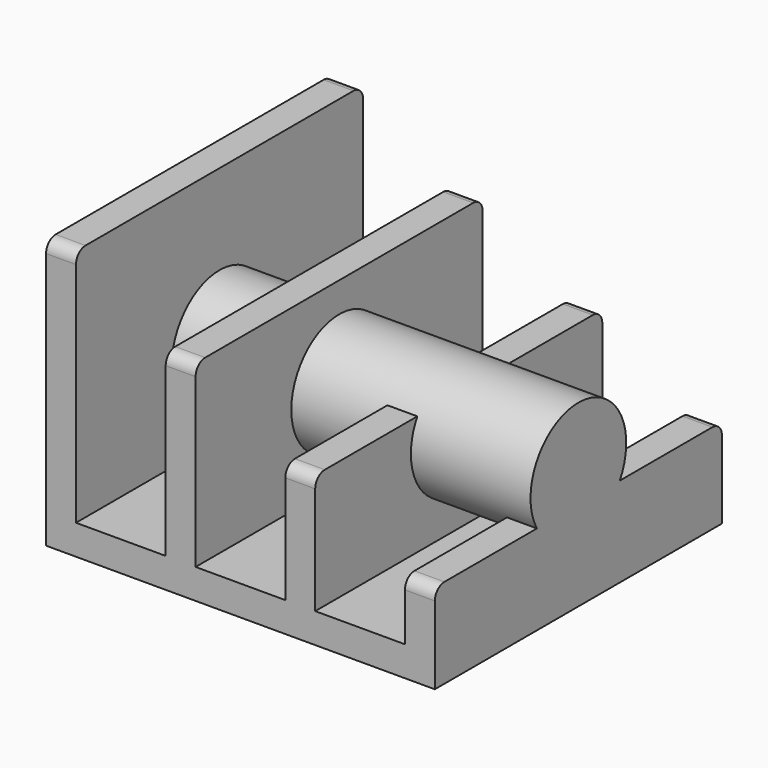
from build123d import *

# Parameters (mm, degrees)
F0_W     = 12.7
F0_H     = 76.2
F0_H_2   = 50.8
F1_DEPTH = 152.4
F2_R     = 25.4
F3_DEPTH = 165.1
F4_R     = 5.08


with BuildPart() as f1:
    # F0 (on Front) → F1 (new body)
    with BuildSketch(Plane.XZ):
        Polygon((-50.8, 93.861793), (-63.5, 93.861793), (-63.5, -20.438207), (101.6, -20.438207), (101.6, 17.661793), (88.9, 17.661793), (88.9, -7.738207), (50.8, -7.738207), (38.1, -7.738207), (32.964252, -7.738207), (0, -7.738207), (-12.7, -7.738207), (-50.8, -7.738207), align=None)
        with Locations((-6.35, 30.361793)):
            Rectangle(F0_W, F0_H)
        with Locations((44.45, 17.661793)):
            Rectangle(F0_W, F0_H_2)
    extrude(amount=F1_DEPTH)

    # F2 (on face) → F3 (join)
    with BuildSketch(Plane(origin=(-63.5, 0, 0), x_dir=(0, -1, 0), z_dir=(-1, 0, 0))):
        with Locations((76.2, 30.361793)):
            Circle(F2_R)
    extrude(amount=-F3_DEPTH)

    # F4
    f4_edges = [f1.edges().sort_by_distance(p)[0] for p in [
        (-57.15, -152.4, 93.861793),
        (-57.15, 0, 93.861793),
        (-6.35, -152.4, 68.461793),
        (-6.35, 0, 68.461793),
        (44.45, 0, 43.061793),
        (44.45, -152.4, 43.061793),
        (95.25, -152.4, 17.661793),
        (95.25, 0, 17.661793),
    ]]
    fillet(f4_edges, radius=F4_R)


solid = f1.part
